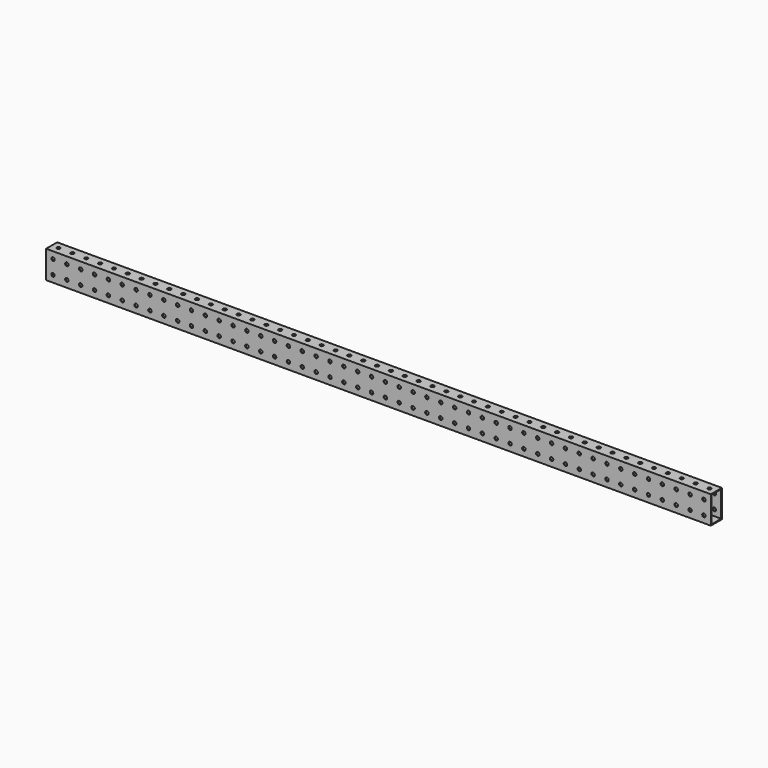
from build123d import *

# Parameters (mm, degrees)
F0_W     = 25.4
F0_H     = 50.8
F0_W_2   = 22.225
F0_H_2   = 47.625
F1_DEPTH = 1219.2
F2_R     = 3.175
F3_DEPTH = 50.801
F4_R     = 3.175
F5_DEPTH = 25.4


with BuildPart() as f1:
    # F0 (on Right) → F1 (new body)
    with BuildSketch(Plane.YZ):
        Rectangle(F0_W, F0_H)
        Rectangle(F0_W_2, F0_H_2, mode=Mode.SUBTRACT)
    extrude(amount=F1_DEPTH)

    # F2 (on face) → F3 (cut, through all)
    with BuildSketch(Plane.XY.offset(25.4)):
        with Locations((12.7, 0)):
            Circle(F2_R)
        with Locations((38.1, 0)):
            Circle(F2_R)
        with Locations((63.5, 0)):
            Circle(F2_R)
        with Locations((88.9, 0)):
            Circle(F2_R)
        with Locations((114.3, 0)):
            Circle(F2_R)
        with Locations((139.7, 0)):
            Circle(F2_R)
        with Locations((165.1, 0)):
            Circle(F2_R)
        with Locations((190.5, 0)):
            Circle(F2_R)
        with Locations((215.9, 0)):
            Circle(F2_R)
        with Locations((241.3, 0)):
            Circle(F2_R)
        with Locations((266.7, 0)):
            Circle(F2_R)
        with Locations((292.1, 0)):
            Circle(F2_R)
        with Locations((317.5, 0)):
            Circle(F2_R)
        with Locations((342.9, 0)):
            Circle(F2_R)
        with Locations((368.3, 0)):
            Circle(F2_R)
        with Locations((393.7, 0)):
            Circle(F2_R)
        with Locations((419.1, 0)):
            Circle(F2_R)
        with Locations((444.5, 0)):
            Circle(F2_R)
        with Locations((469.9, 0)):
            Circle(F2_R)
        with Locations((495.3, 0)):
            Circle(F2_R)
        with Locations((520.7, 0)):
            Circle(F2_R)
        with Locations((546.1, 0)):
            Circle(F2_R)
        with Locations((571.5, 0)):
            Circle(F2_R)
        with Locations((596.9, 0)):
            Circle(F2_R)
        with Locations((622.3, 0)):
            Circle(F2_R)
        with Locations((647.7, 0)):
            Circle(F2_R)
        with Locations((673.1, 0)):
            Circle(F2_R)
        with Locations((698.5, 0)):
            Circle(F2_R)
        with Locations((723.9, 0)):
            Circle(F2_R)
        with Locations((749.3, 0)):
            Circle(F2_R)
        with Locations((774.7, 0)):
            Circle(F2_R)
        with Locations((800.1, 0)):
            Circle(F2_R)
        with Locations((825.5, 0)):
            Circle(F2_R)
        with Locations((850.9, 0)):
            Circle(F2_R)
        with Locations((876.3, 0)):
            Circle(F2_R)
        with Locations((901.7, 0)):
            Circle(F2_R)
        with Locations((927.1, 0)):
            Circle(F2_R)
        with Locations((952.5, 0)):
            Circle(F2_R)
        with Locations((977.9, 0)):
            Circle(F2_R)
        with Locations((1003.3, 0)):
            Circle(F2_R)
        with Locations((1028.7, 0)):
            Circle(F2_R)
        with Locations((1054.1, 0)):
            Circle(F2_R)
        with Locations((1079.5, 0)):
            Circle(F2_R)
        with Locations((1104.9, 0)):
            Circle(F2_R)
        with Locations((1130.3, 0)):
            Circle(F2_R)
        with Locations((1155.7, 0)):
            Circle(F2_R)
        with Locations((1181.1, 0)):
            Circle(F2_R)
        with Locations((1206.5, 0)):
            Circle(F2_R)
        with Locations((1231.9, 0)):
            Circle(F2_R)
        with Locations((1257.3, 0)):
            Circle(F2_R)
        with Locations((1282.7, 0)):
            Circle(F2_R)
        with Locations((1308.1, 0)):
            Circle(F2_R)
    extrude(amount=-F3_DEPTH, mode=Mode.SUBTRACT)

    # F4 (on face) → F5 (cut)
    with BuildSketch(Plane.XZ.offset(12.7)):
        with Locations((12.7, 12.7)):
            Circle(F4_R)
        with Locations((12.7, -12.7)):
            Circle(F4_R)
        with Locations((38.1, 12.7)):
            Circle(F4_R)
        with Locations((38.1, -12.7)):
            Circle(F4_R)
        with Locations((63.5, 12.7)):
            Circle(F4_R)
        with Locations((63.5, -12.7)):
            Circle(F4_R)
        with Locations((88.9, 12.7)):
            Circle(F4_R)
        with Locations((88.9, -12.7)):
            Circle(F4_R)
        with Locations((114.3, 12.7)):
            Circle(F4_R)
        with Locations((114.3, -12.7)):
            Circle(F4_R)
        with Locations((139.7, 12.7)):
            Circle(F4_R)
        with Locations((139.7, -12.7)):
            Circle(F4_R)
        with Locations((165.1, 12.7)):
            Circle(F4_R)
        with Locations((165.1, -12.7)):
            Circle(F4_R)
        with Locations((190.5, 12.7)):
            Circle(F4_R)
        with Locations((190.5, -12.7)):
            Circle(F4_R)
        with Locations((215.9, 12.7)):
            Circle(F4_R)
        with Locations((215.9, -12.7)):
            Circle(F4_R)
        with Locations((241.3, 12.7)):
            Circle(F4_R)
        with Locations((241.3, -12.7)):
            Circle(F4_R)
        with Locations((266.7, 12.7)):
            Circle(F4_R)
        with Locations((266.7, -12.7)):
            Circle(F4_R)
        with Locations((292.1, 12.7)):
            Circle(F4_R)
        with Locations((292.1, -12.7)):
            Circle(F4_R)
        with Locations((317.5, 12.7)):
            Circle(F4_R)
        with Locations((317.5, -12.7)):
            Circle(F4_R)
        with Locations((342.9, 12.7)):
            Circle(F4_R)
        with Locations((342.9, -12.7)):
            Circle(F4_R)
        with Locations((368.3, 12.7)):
            Circle(F4_R)
        with Locations((368.3, -12.7)):
            Circle(F4_R)
        with Locations((393.7, 12.7)):
            Circle(F4_R)
        with Locations((393.7, -12.7)):
            Circle(F4_R)
        with Locations((419.1, 12.7)):
            Circle(F4_R)
        with Locations((419.1, -12.7)):
            Circle(F4_R)
        with Locations((444.5, 12.7)):
            Circle(F4_R)
        with Locations((444.5, -12.7)):
            Circle(F4_R)
        with Locations((469.9, 12.7)):
            Circle(F4_R)
        with Locations((469.9, -12.7)):
            Circle(F4_R)
        with Locations((495.3, 12.7)):
            Circle(F4_R)
        with Locations((495.3, -12.7)):
            Circle(F4_R)
        with Locations((520.7, 12.7)):
            Circle(F4_R)
        with Locations((520.7, -12.7)):
            Circle(F4_R)
        with Locations((546.1, 12.7)):
            Circle(F4_R)
        with Locations((546.1, -12.7)):
            Circle(F4_R)
        with Locations((571.5, 12.7)):
            Circle(F4_R)
        with Locations((571.5, -12.7)):
            Circle(F4_R)
        with Locations((596.9, 12.7)):
            Circle(F4_R)
        with Locations((596.9, -12.7)):
            Circle(F4_R)
        with Locations((622.3, 12.7)):
            Circle(F4_R)
        with Locations((622.3, -12.7)):
            Circle(F4_R)
        with Locations((647.7, 12.7)):
            Circle(F4_R)
        with Locations((647.7, -12.7)):
            Circle(F4_R)
        with Locations((673.1, 12.7)):
            Circle(F4_R)
        with Locations((673.1, -12.7)):
            Circle(F4_R)
        with Locations((698.5, 12.7)):
            Circle(F4_R)
        with Locations((698.5, -12.7)):
            Circle(F4_R)
        with Locations((723.9, 12.7)):
            Circle(F4_R)
        with Locations((723.9, -12.7)):
            Circle(F4_R)
        with Locations((749.3, 12.7)):
            Circle(F4_R)
        with Locations((749.3, -12.7)):
            Circle(F4_R)
        with Locations((774.7, 12.7)):
            Circle(F4_R)
        with Locations((774.7, -12.7)):
            Circle(F4_R)
        with Locations((800.1, 12.7)):
            Circle(F4_R)
        with Locations((800.1, -12.7)):
            Circle(F4_R)
        with Locations((825.5, 12.7)):
            Circle(F4_R)
        with Locations((825.5, -12.7)):
            Circle(F4_R)
        with Locations((850.9, 12.7)):
            Circle(F4_R)
        with Locations((850.9, -12.7)):
            Circle(F4_R)
        with Locations((876.3, 12.7)):
            Circle(F4_R)
        with Locations((876.3, -12.7)):
            Circle(F4_R)
        with Locations((901.7, 12.7)):
            Circle(F4_R)
        with Locations((901.7, -12.7)):
            Circle(F4_R)
        with Locations((927.1, 12.7)):
            Circle(F4_R)
        with Locations((927.1, -12.7)):
            Circle(F4_R)
        with Locations((952.5, 12.7)):
            Circle(F4_R)
        with Locations((952.5, -12.7)):
            Circle(F4_R)
        with Locations((977.9, 12.7)):
            Circle(F4_R)
        with Locations((977.9, -12.7)):
            Circle(F4_R)
        with Locations((1003.3, 12.7)):
            Circle(F4_R)
        with Locations((1003.3, -12.7)):
            Circle(F4_R)
        with Locations((1028.7, 12.7)):
            Circle(F4_R)
        with Locations((1028.7, -12.7)):
            Circle(F4_R)
        with Locations((1054.1, 12.7)):
            Circle(F4_R)
        with Locations((1054.1, -12.7)):
            Circle(F4_R)
        with Locations((1079.5, 12.7)):
            Circle(F4_R)
        with Locations((1079.5, -12.7)):
            Circle(F4_R)
        with Locations((1104.9, 12.7)):
            Circle(F4_R)
        with Locations((1104.9, -12.7)):
            Circle(F4_R)
        with Locations((1130.3, 12.7)):
            Circle(F4_R)
        with Locations((1130.3, -12.7)):
            Circle(F4_R)
        with Locations((1155.7, 12.7)):
            Circle(F4_R)
        with Locations((1155.7, -12.7)):
            Circle(F4_R)
        with Locations((1181.1, 12.7)):
            Circle(F4_R)
        with Locations((1181.1, -12.7)):
            Circle(F4_R)
        with Locations((1206.5, 12.7)):
            Circle(F4_R)
        with Locations((1206.5, -12.7)):
            Circle(F4_R)
        with Locations((1231.9, 12.7)):
            Circle(F4_R)
        with Locations((1231.9, -12.7)):
            Circle(F4_R)
        with Locations((1257.3, 12.7)):
            Circle(F4_R)
        with Locations((1257.3, -12.7)):
            Circle(F4_R)
        with Locations((1282.7, 12.7)):
            Circle(F4_R)
        with Locations((1282.7, -12.7)):
            Circle(F4_R)
        with Locations((1308.1, 12.7)):
            Circle(F4_R)
        with Locations((1308.1, -12.7)):
            Circle(F4_R)
    extrude(amount=-F5_DEPTH, mode=Mode.SUBTRACT)


solid = f1.part
